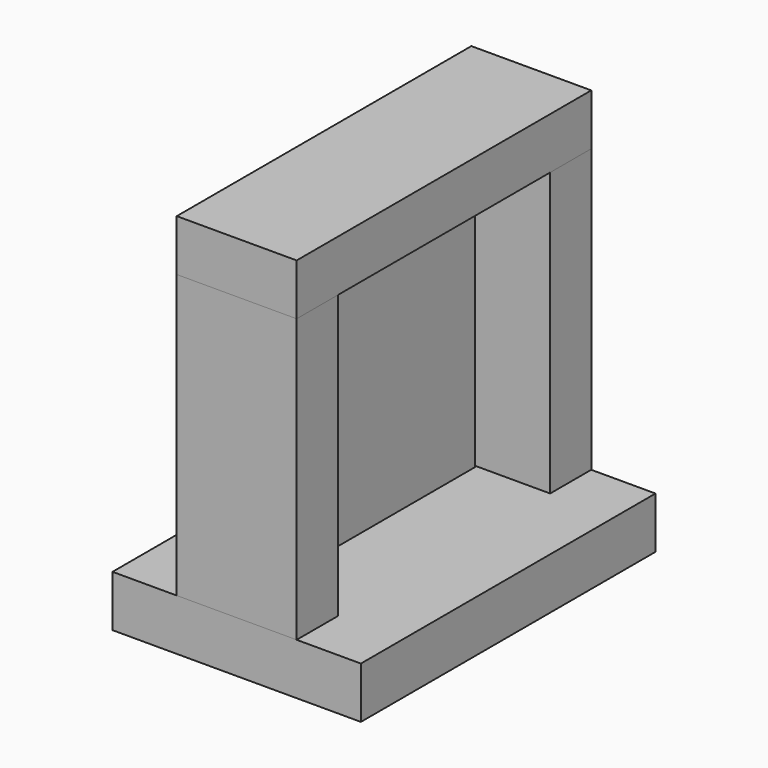
from build123d import *

# Parameters (mm, degrees)
BOX_W        = 38.1
BOX_H        = 184.15
BOX_DEPTH    = 203.2
BOX001_W     = 184.15
BOX001_H     = 273.05
BOX001_DEPTH = 38.1
BOX002_W     = 88.9
BOX002_H     = 38.1
BOX002_DEPTH = 209.55
BOX003_W     = 88.9
BOX003_H     = 38.1
BOX003_DEPTH = 209.55
BOX004_W     = 88.9
BOX004_H     = 273.05
BOX004_DEPTH = 38.1


with BuildPart() as door:
    # Box → Box (new body)
    with BuildSketch(Plane.XY):
        with Locations((19.05, 92.075)):
            Rectangle(BOX_W, BOX_H)
    extrude(amount=BOX_DEPTH)


with BuildPart() as baseplate:
    # Box001 → Box001 (new body)
    with BuildSketch(Plane(origin=(-47.625, -44.45, -41.275), x_dir=(1, 0, 0), z_dir=(0, 0, 1))):
        with Locations((92.075, 136.525)):
            Rectangle(BOX001_W, BOX001_H)
    extrude(amount=BOX001_DEPTH)


with BuildPart() as obj1:
    # Box002 → Box002 (new body)
    with BuildSketch(Plane(origin=(0, -44.45, -3.175), x_dir=(1, 0, 0), z_dir=(0, 0, 1))):
        with Locations((44.45, 19.05)):
            Rectangle(BOX002_W, BOX002_H)
    extrude(amount=BOX002_DEPTH)


with BuildPart() as obj2:
    # Box003 → Box003 (new body)
    with BuildSketch(Plane(origin=(0, 190.5, -3.175), x_dir=(1, 0, 0), z_dir=(0, 0, 1))):
        with Locations((44.45, 19.05)):
            Rectangle(BOX003_W, BOX003_H)
    extrude(amount=BOX003_DEPTH)


with BuildPart() as lintel:
    # Box004 → Box004 (new body)
    with BuildSketch(Plane(origin=(0, -44.45, 206.375), x_dir=(1, 0, 0), z_dir=(0, 0, 1))):
        with Locations((44.45, 136.525)):
            Rectangle(BOX004_W, BOX004_H)
    extrude(amount=BOX004_DEPTH)


solid = Compound([door.part, baseplate.part, obj1.part, obj2.part, lintel.part])
